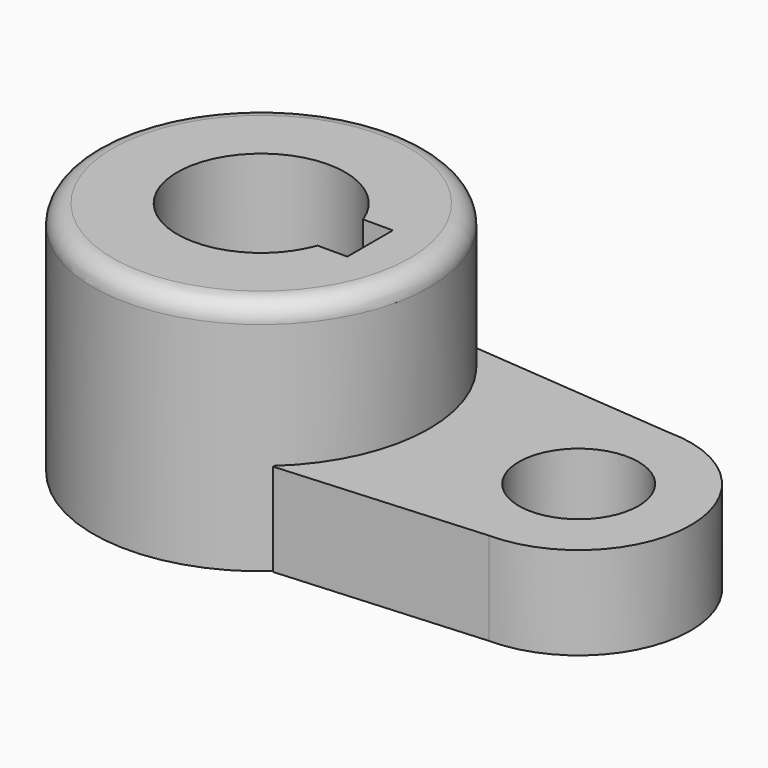
from build123d import *

# Parameters (mm, degrees)
F0_R     = 28.575532
F1_DEPTH = 40.2336
F2_DEPTH = 40.2336
F3_R     = 3.302
F4_R     = 10.162681
F5_DEPTH = 15.7734


with BuildPart() as f1:
    # F0 (on Top) → F1 (new body)
    with BuildSketch(Plane.XY):
        with Locations((-45.395139, 0)):
            Circle(F0_R)
        with BuildLine():
            Line((-26.875399, 4.833719), (-26.875399, 0))
            Line((-26.875399, 0), (-26.875399, -4.835614))
            Line((-26.875399, -4.835614), (-31.951214, -4.835614))
            ThreePointArc((-31.951214, -4.835614), (-59.682276, 0.001007), (-31.950532, 4.833719))
            Line((-31.950532, 4.833719), (-26.875399, 4.833719))
        make_face(mode=Mode.SUBTRACT)
        with BuildLine():
            Line((-39.865061, 4.833719), (-31.950532, 4.833719))
            ThreePointArc((-31.950532, 4.833719), (-59.682276, 0.001007), (-31.951214, -4.835614))
            Line((-31.951214, -4.835614), (-39.865061, -4.835614))
            Line((-39.865061, -4.835614), (-39.865061, 0))
            Line((-39.865061, 0), (-39.865061, 4.833719))
        make_face()
    extrude(amount=F1_DEPTH)

    # F0 (on Top) → F2 (cut)
    with BuildSketch(Plane.XY):
        with BuildLine():
            Line((-31.108002, 0), (-26.875399, 0))
            Line((-26.875399, 0), (-26.875399, 4.833719))
            Line((-26.875399, 4.833719), (-31.950532, 4.833719))
            ThreePointArc((-31.950532, 4.833719), (-31.320211, 2.453298), (-31.108002, 0))
        make_face()
        with BuildLine():
            Line((-39.865061, 4.833719), (-31.950532, 4.833719))
            ThreePointArc((-31.950532, 4.833719), (-59.682276, 0.001007), (-31.951214, -4.835614))
            Line((-31.951214, -4.835614), (-39.865061, -4.835614))
            Line((-39.865061, -4.835614), (-39.865061, 0))
            Line((-39.865061, 0), (-39.865061, 4.833719))
        make_face()
    extrude(amount=F2_DEPTH, mode=Mode.SUBTRACT)

    # F3
    f3_edges = [f1.edges().sort_by_distance(p)[0] for p in [
        (-73.970671, 0, 40.2336),
    ]]
    fillet(f3_edges, radius=F3_R)

    # F4 (on Top) → F5 (join)
    with BuildSketch(Plane.XY):
        with BuildLine():
            Line((8.595701, 19.046027), (-26.525037, 22.033167))
            Line((-26.525037, 22.033167), (-26.240665, -21.475879))
            Line((-26.240665, -21.475879), (8.595701, -19.046027))
            ThreePointArc((8.595701, -19.046027), (27.641729, 0), (8.595701, 19.046027))
        make_face()
        with Locations((8.595701, 0)):
            Circle(F4_R, mode=Mode.SUBTRACT)
    extrude(amount=F5_DEPTH)


solid = f1.part
